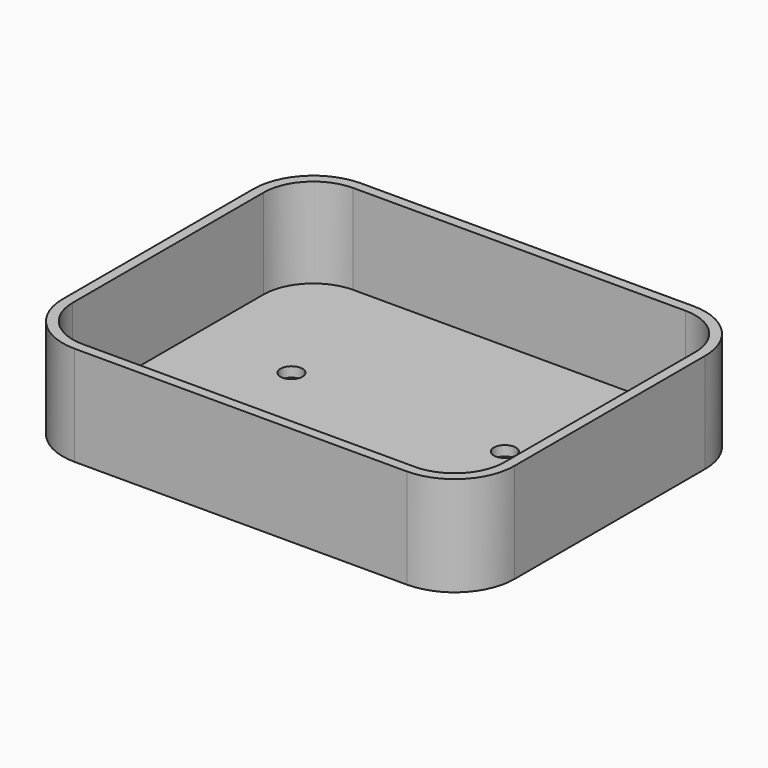
from build123d import *

# Parameters (mm, degrees)
F0_W     = 113.2934466004
F0_H     = 89.8272059858
F1_DEPTH = 25
F2_R     = 15
F3_T     = -2.5
F5_D     = 5.5


with BuildPart() as f1:
    # F0 (on Top) → F1 (new body)
    with BuildSketch(Plane.XY):
        with Locations((-2.4710707366, -13.6352684349)):
            Rectangle(F0_W, F0_H)
    extrude(amount=F1_DEPTH)

    # F2
    f2_edges = [f1.edges().sort_by_distance(p)[0] for p in [
        (-59.117794, -58.548871, 12.5),
        (54.175653, -58.548871, 12.5),
        (54.175653, 31.278335, 12.5),
        (-59.117794, 31.278335, 12.5),
    ]]
    fillet(f2_edges, radius=F2_R)

    # F3
    f3_openings = [f1.faces().sort_by_distance(p)[0] for p in [
        (-2.471071, -13.635268, 25),
    ]]
    offset(amount=F3_T, openings=f3_openings)

    # F5 (through all)
    with Locations(Plane.XY.offset(2.5)):
        with Locations((-31.6177940369, -6.221665442), (-31.6177940369, -31.221665442), (21.9052377621, -6.221665442), (23.3822059631, -31.221665442)):
            Hole(F5_D / 2)


solid = f1.part
